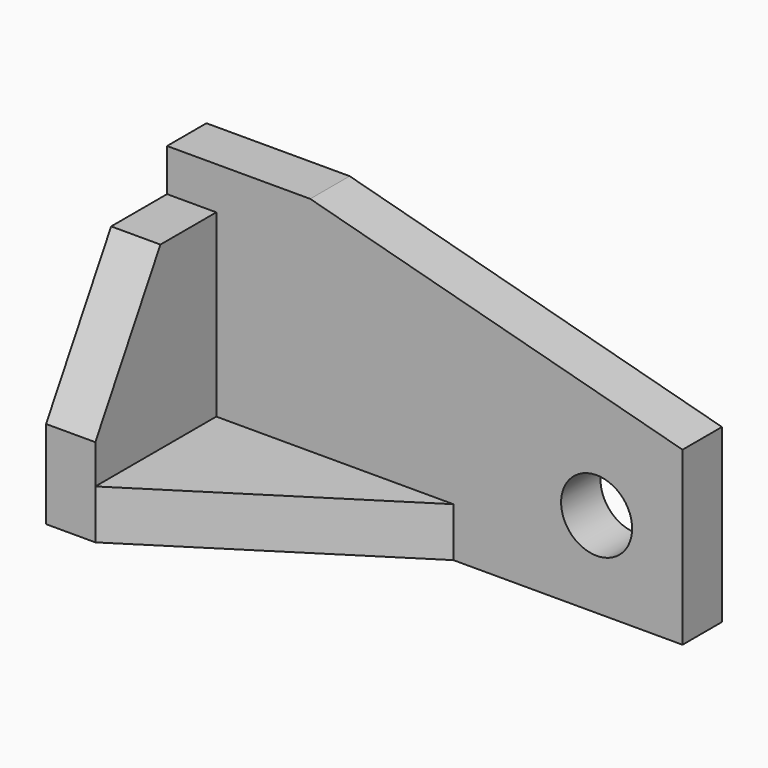
from build123d import *

# Parameters (mm, degrees)
F0_R     = 7.874
F1_DEPTH = 10.922
F2_W     = 10.922
F2_H     = 50.8
F3_DEPTH = 33.528
F4_SIZE2 = 18.03757711
F4_SIZE  = 31.242
F5_W     = 52.578
F5_H     = 10.922
F6_DEPTH = 33.528
F8_DEPTH = 10.922


with BuildPart() as f1:
    # F0 (on Front) → F1 (new body)
    with BuildSketch(Plane.XZ):
        Polygon((0, 44.5672801329), (-31.75, 44.5672801329), (-31.75, -15.6307198671), (82.55, -15.6307198671), (82.55, 22.4480742977), align=None)
        with Locations((63.5, 3.4192801329)):
            Circle(F0_R, mode=Mode.SUBTRACT)
    extrude(amount=F1_DEPTH)

    # F2 (on face) → F3 (join)
    with BuildSketch(Plane.XZ.offset(10.922)):
        with Locations((-26.289, 9.7692801329)):
            Rectangle(F2_W, F2_H)
    extrude(amount=F3_DEPTH)

    # F4
    f4_edges = [f1.edges().sort_by_distance(p)[0] for p in [
        (-26.289, -44.45, 35.16928),
    ]]
    f4_side = f1.faces().sort_by_distance((-26.289, -44.45, 9.76928))[0]
    chamfer(f4_edges, length=F4_SIZE, length2=F4_SIZE2, reference=f4_side)

    # F5 (on face) → F6 (join)
    with BuildSketch(Plane.XZ.offset(10.922)):
        with Locations((5.461, -10.1697198671)):
            Rectangle(F5_W, F5_H)
    extrude(amount=F6_DEPTH)

    # F7 (on face) → F8 (cut)
    with BuildSketch(Plane.XY.offset(-4.7087198671)):
        Polygon((31.75, -10.922), (-20.828, -44.45), (31.75, -44.45), align=None)
    extrude(amount=-F8_DEPTH, mode=Mode.SUBTRACT)


solid = f1.part
